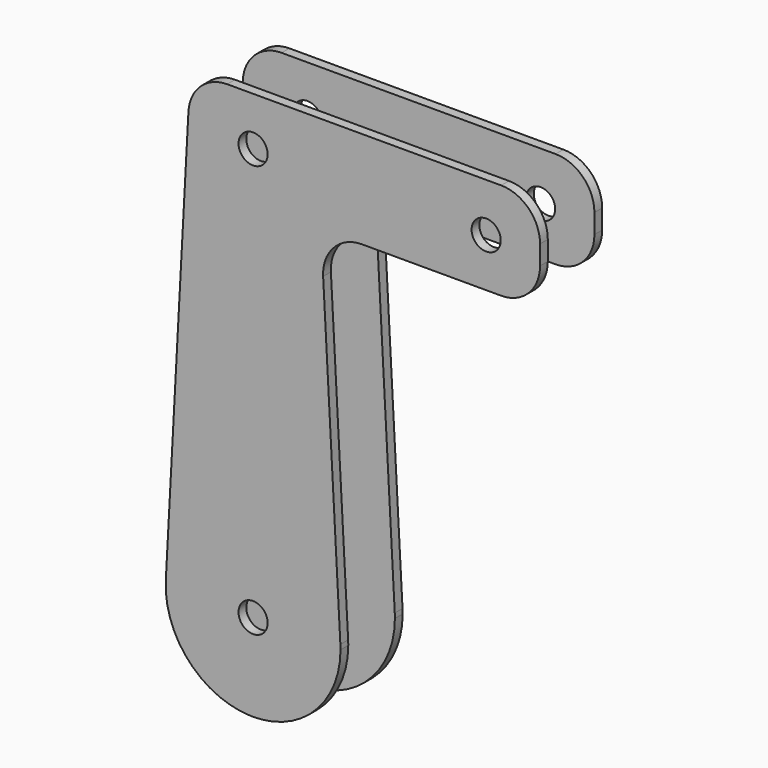
from build123d import *

# Parameters (mm, degrees)
F0_R     = 7.5
F1_DEPTH = 5
F2_R     = 20
F3_R     = 20
F4_R     = 20
F5_R     = 20


with BuildPart() as f1:
    # F0 (on Front) → F1 (new body)
    with BuildSketch(Plane.XZ):
        with BuildLine():
            ThreePointArc((-44.934803, 2.421455), (-0.005514, 45), (44.934209, 2.432468))
            Line((44.934209, 2.432468), (34.921178, 187.4))
            Line((34.921178, 187.4), (147.727768, 187.4))
            Line((147.727768, 187.4), (147.727768, 237.4))
            Line((147.727768, 237.4), (-32.272232, 237.4))
            Line((-32.272232, 237.4), (-44.934803, 2.421455))
        make_face()
        with Locations((0, 212.4)):
            Circle(F0_R, mode=Mode.SUBTRACT)
        with Locations((120, 212.4)):
            Circle(F0_R, mode=Mode.SUBTRACT)
        with BuildLine():
            ThreePointArc((-44.934803, 2.421455), (-1.211166, -44.983698), (45, 0))
            ThreePointArc((45, 0), (44.983549, 1.216679), (44.934209, 2.432468))
            ThreePointArc((44.934209, 2.432468), (-0.005514, 45), (-44.934803, 2.421455))
        make_face()
        Circle(F0_R, mode=Mode.SUBTRACT)
    extrude(amount=F1_DEPTH)

    # F2
    f2_edges = [f1.edges().sort_by_distance(p)[0] for p in [
        (147.727768, -2.5, 237.4),
    ]]
    fillet(f2_edges, radius=F2_R)

    # F3
    f3_edges = [f1.edges().sort_by_distance(p)[0] for p in [
        (147.727768, -2.5, 187.4),
    ]]
    fillet(f3_edges, radius=F3_R)

    # F4
    f4_edges = [f1.edges().sort_by_distance(p)[0] for p in [
        (-32.272232, -2.5, 237.4),
    ]]
    fillet(f4_edges, radius=F4_R)

    # F5
    f5_edges = [f1.edges().sort_by_distance(p)[0] for p in [
        (34.921178, -2.5, 187.4),
    ]]
    fillet(f5_edges, radius=F5_R)


with BuildPart() as f7_1:
    # F7: instance of F1
    add(f1.part.mirror(Plane.XZ.offset(-15)))


solid = Compound([f1.part, f7_1.part])
